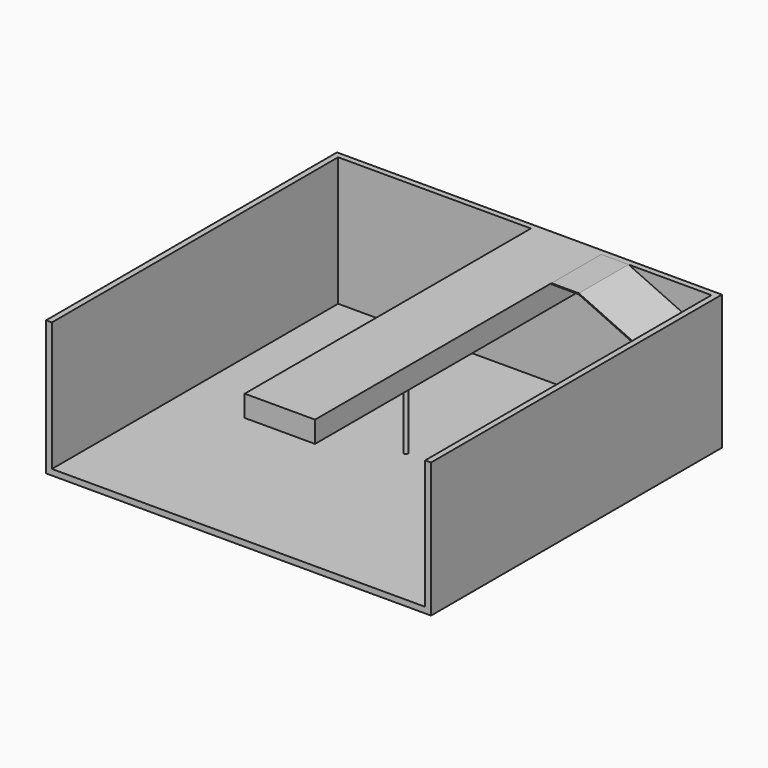
from build123d import *

# Parameters (mm, degrees)
F0_W      = 7543.8
F0_H      = 2641.6
F1_DEPTH  = 114.3
F2_W      = 7543.8
F2_H      = 114.3
F3_W      = 114.3
F3_H      = 2527.3
F4_W      = 114.3
F4_H      = 2527.3
F5_W      = 1377.95
F5_H      = 419.1
F6_DEPTH  = 7010.4
F8_DEPTH  = 1219.2
F9_R      = 38.1
F10_DEPTH = 2108.2


with BuildPart() as f1:
    # F0 (on Front) → F1 (new body)
    with BuildSketch(Plane.XZ):
        with Locations((0, 1320.8)):
            Rectangle(F0_W, F0_H)
    extrude(amount=F1_DEPTH)

    # F2 (on face) + F3 (on face) + F4 (on face) + F5 (on face) → F6 (join)
    with BuildSketch(Plane.XZ.offset(114.3)):
        with Locations((0, 57.15)):
            Rectangle(F2_W, F2_H)
    with BuildSketch(Plane.XZ.offset(114.3)):
        with Locations((3714.75, 1377.95)):
            Rectangle(F3_W, F3_H)
    with BuildSketch(Plane.XZ.offset(114.3)):
        with Locations((-3714.75, 1377.95)):
            Rectangle(F4_W, F4_H)
    with BuildSketch(Plane.XZ.offset(114.3)):
        with Locations((809.625, 2432.05)):
            Rectangle(F5_W, F5_H)
    extrude(amount=F6_DEPTH)

    # F9 (on face) → F10 (join)
    with BuildSketch(Plane.XY.offset(114.3)):
        with Locations((241.3, -3327.4)):
            Circle(F9_R)
    extrude(amount=F10_DEPTH)


with BuildPart() as f8:
    # F7 (on face) → F8 (new body)
    with BuildSketch(Plane.XZ.offset(114.3)):
        Polygon((3657.6, 1028.7), (3142.343815, 2133.670454), (2033.986375, 2641.6), (1498.6, 2641.6), (1498.6, 2622.55), (2029.829202, 2622.55), (3128.039149, 2119.27077), (3640.334837, 1020.649122), align=None)
    extrude(amount=F8_DEPTH)


solid = Compound([f1.part, f8.part])
